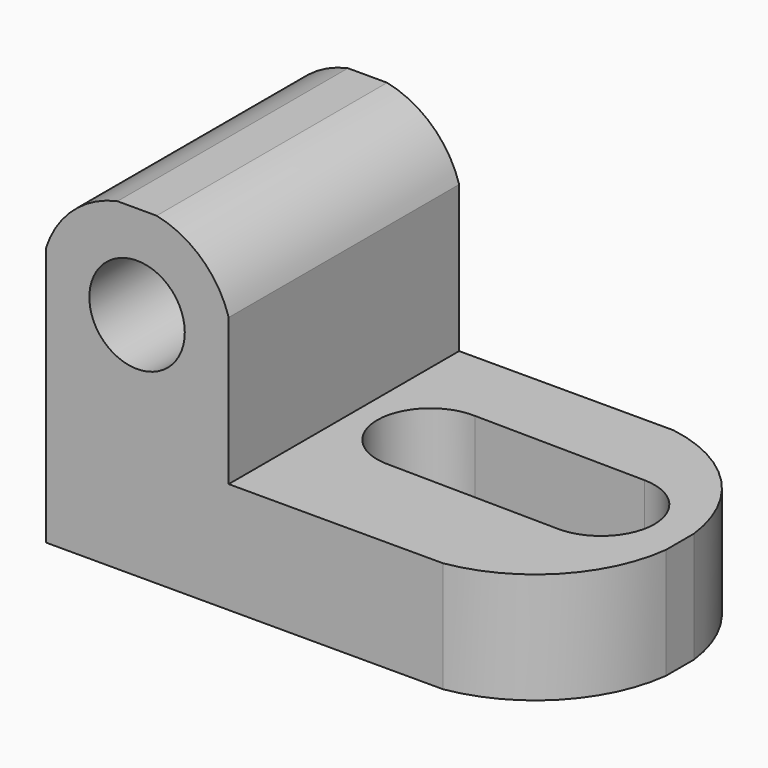
from build123d import *

# Parameters (mm, degrees)
F1_DEPTH = 25.4
F3_DEPTH = 9.7799997235
F5_DEPTH = 9.7799997235
F7_DEPTH = 25.401
F8_R     = 4.2081540675
F9_DEPTH = 25.401


with BuildPart() as f1:
    # F0 (on Front) → F1 (new body)
    with BuildSketch(Plane.XZ):
        Polygon((0, 28.5467784852), (0, 0), (45.7341149449, 0), (45.7341149449, 9.7789997235), (16.1007773131, 9.7789997235), (16.1007773131, 28.5467784852), align=None)
    extrude(amount=F1_DEPTH)

    # F2 (on face) → F3 (cut, through all)
    with BuildSketch(Plane.XY.offset(9.7789997235)):
        with BuildLine():
            ThreePointArc((23.013047613, -16.2487795257), (26.2065060315, -14.8076541333), (27.5135145448, -11.5570006892))
            ThreePointArc((27.5135145448, -11.5570006892), (26.2065060315, -8.3063472451), (23.013047613, -6.8652218527))
            ThreePointArc((23.013047613, -6.8652218527), (18.1218243279, -11.5570006892), (23.013047613, -16.2487795257))
        make_face()
        with BuildLine():
            ThreePointArc((23.013047613, -6.8652218527), (26.2065060315, -8.3063472451), (27.5135145448, -11.5570006892))
            ThreePointArc((27.5135145448, -11.5570006892), (26.2065060315, -14.8076541333), (23.013047613, -16.2487795257))
            Line((23.013047613, -16.2487795257), (37.966271611, -16.4499710275))
            ThreePointArc((37.966271611, -16.4499710275), (33.334012479, -11.6927764727), (38.0898284635, -7.0591020107))
            Line((38.0898284635, -7.0591020107), (23.013047613, -6.8652218527))
        make_face()
        with BuildLine():
            ThreePointArc((42.7252883073, -11.7545549017), (41.3711881032, -8.4555108805), (38.0898284635, -7.0591020107))
            ThreePointArc((38.0898284635, -7.0591020107), (33.334012479, -11.6927764727), (37.966271611, -16.4499710275))
            ThreePointArc((37.966271611, -16.4499710275), (41.327496713, -15.0972773142), (42.7252883073, -11.7545549017))
        make_face()
    extrude(amount=-F3_DEPTH, mode=Mode.SUBTRACT)

    # F4 (on face) → F5 (cut, through all)
    with BuildSketch(Plane.XY.offset(9.7789997235)):
        with BuildLine():
            ThreePointArc((35.0055416845, 0), (42.2404327965, -3.7910480752), (45.7341149449, -11.17412873))
            Line((45.7341149449, -11.17412873), (45.7341149449, 0))
            Line((45.7341149449, 0), (35.0055416845, 0))
        make_face()
        with BuildLine():
            ThreePointArc((45.7341149449, -14.22587127), (42.2404327965, -21.6089519248), (35.0055416845, -25.4))
            Line((35.0055416845, -25.4), (45.7341149449, -25.4))
            Line((45.7341149449, -25.4), (45.7341149449, -14.22587127))
        make_face()
    extrude(amount=-F5_DEPTH, mode=Mode.SUBTRACT)

    # F6 (on face) → F7 (cut, through all)
    with BuildSketch(Plane.XZ.offset(25.4)):
        with BuildLine():
            ThreePointArc((0, 22.8922715803), (2.3876784288, 26.566481818), (6.2965470963, 28.5467784852))
            Line((6.2965470963, 28.5467784852), (0, 28.5467784852))
            Line((0, 28.5467784852), (0, 22.8922715803))
        make_face()
        with BuildLine():
            ThreePointArc((9.7487572031, 28.5467784852), (13.7265705753, 26.5038761141), (16.1007773131, 22.7144709249))
            Line((16.1007773131, 22.7144709249), (16.1007773131, 28.5467784852))
            Line((16.1007773131, 28.5467784852), (9.7487572031, 28.5467784852))
        make_face()
    extrude(amount=-F7_DEPTH, mode=Mode.SUBTRACT)

    # F8 (on face) → F9 (cut, through all)
    with BuildSketch(Plane.XZ.offset(25.4)):
        with Locations((8.0226521497, 20.2916857982)):
            Circle(F8_R)
    extrude(amount=-F9_DEPTH, mode=Mode.SUBTRACT)


solid = f1.part
